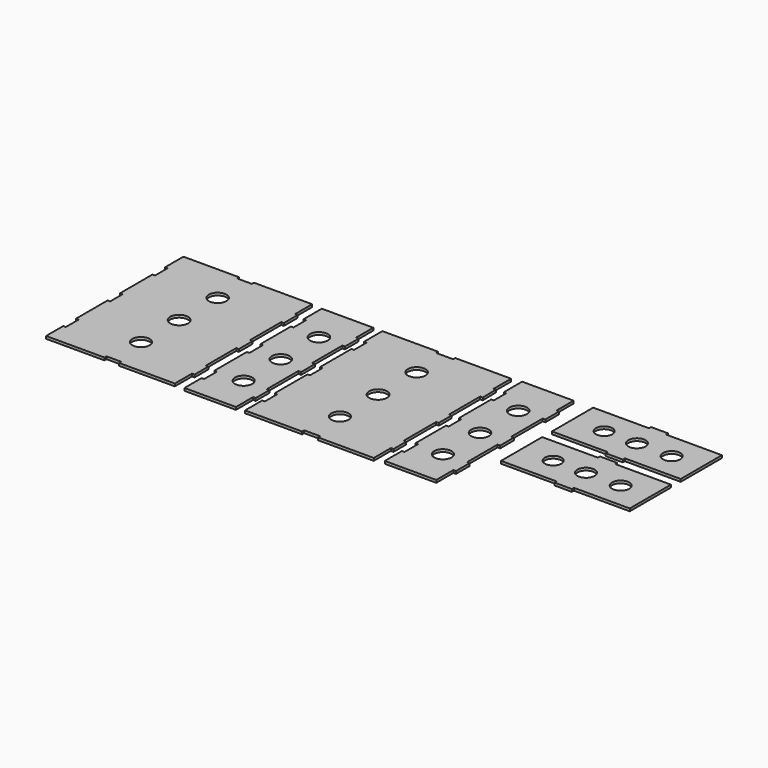
from build123d import *

# Parameters (mm, degrees)
F0_R     = 10.082117
F0_R_2   = 10.420253
F0_R_3   = 10.261225
F0_R_4   = 10.097408
F0_R_5   = 10.290924
F0_R_6   = 10.321962
F0_R_7   = 9.617991
F0_R_8   = 10
F0_R_9   = 10.046124
F1_DEPTH = 3


with BuildPart() as f1:
    # F0 (on Top) → F1 (new body)
    with BuildSketch(Plane.XY):
        Polygon((10, -100), (75, -100), (75, -75), (78, -75), (78, -56.5), (75, -56.5), (75, -9.035806), (78.000031, -9.035806), (78.000031, 9.464194), (75, 9.464194), (75, 55), (78, 55), (77.600377, 74.996007), (75, 73.5), (75, 100), (10, 100), (10, 97), (-10, 97), (-10, 100), (-75, 100), (-75, 73.5), (-72, 73.5), (-72, 55), (-75, 55), (-75, 9.464194), (-71.999982, 9.464194), (-71.999982, -9.035806), (-75, -9.035806), (-75, -56.5), (-72, -56.5), (-72, -75), (-75, -75), (-75, -100), (-8.5, -100), (-8.5, -97), (10, -97), align=None)
        with Locations((0, -55.51194)):
            Circle(F0_R, mode=Mode.SUBTRACT)
        Circle(F0_R_2, mode=Mode.SUBTRACT)
        with Locations((0, 56.116045)):
            Circle(F0_R_3, mode=Mode.SUBTRACT)
        Polygon((-145.63933, -99.904256), (-85.63933, -99.904256), (-85.63933, -74.904256), (-82.63933, -74.904256), (-82.63933, -54.904256), (-85.63933, -54.904256), (-85.63933, -9.035806), (-82.373428, -9.035806), (-82.373428, 10.964194), (-85.63933, 10.964194), (-85.63933, 55.095744), (-82.63933, 55.095744), (-82.63933, 75.095744), (-85.63933, 75.095744), (-85.63933, 100.095744), (-145.63933, 100.095744), (-145.63933, 73.595744), (-142.63933, 73.595744), (-142.63933, 55.095744), (-145.63933, 55.095744), (-145.63933, 10.964194), (-142.63933, 10.964194), (-142.63933, -9.035806), (-145.63933, -9.035806), (-145.63933, -56.404256), (-142.63933, -56.404256), (-142.63933, -74.904256), (-145.63933, -74.904256), align=None)
        with Locations((-112.506379, -55.128213)):
            Circle(F0_R_4, mode=Mode.SUBTRACT)
        with Locations((-112.506379, -1.0879)):
            Circle(F0_R_5, mode=Mode.SUBTRACT)
        with Locations((-112.506379, 54.488454)):
            Circle(F0_R_6, mode=Mode.SUBTRACT)
        Polygon((86.44101, -98.313044), (146.44101, -98.313044), (146.44101, -73.313044), (149.44101, -73.313044), (149.44101, -53.313044), (146.44101, -53.313044), (146.44101, -9.035806), (149.44101, -9.035806), (149.44101, 10.964194), (146.44101, 10.964194), (146.44101, 56.686956), (149.44101, 56.686956), (149.44101, 76.686956), (146.44101, 76.686956), (146.44101, 101.686956), (86.44101, 101.686956), (86.44101, 75.186956), (89.44101, 75.186956), (89.44101, 56.686956), (86.44101, 56.686956), (86.44101, 9.464194), (89.441434, 9.464194), (89.441434, -9.035806), (86.44101, -9.035806), (86.44101, -53.313044), (89.44101, -53.313044), (89.44101, -73.313044), (86.44101, -73.313044), align=None)
        with Locations((119.573961, -55.037001)):
            Circle(F0_R_4, mode=Mode.SUBTRACT)
        with Locations((119.573961, -0.996688)):
            Circle(F0_R_5, mode=Mode.SUBTRACT)
        with Locations((119.573961, 54.579666)):
            Circle(F0_R_6, mode=Mode.SUBTRACT)
        Polygon((-222.952821, -98.520204), (-157.952821, -98.520204), (-157.952821, -73.520204), (-154.952821, -73.520204), (-154.952821, -53.520204), (-157.952821, -53.520204), (-157.952821, -9.035806), (-154.952821, -9.035806), (-154.952821, 10.964194), (-157.952821, 10.964194), (-157.952821, 56.479796), (-154.952821, 56.479796), (-154.952821, 76.479796), (-157.952821, 76.479796), (-157.952821, 101.479796), (-225.533877, 101.479796), (-225.879048, 98.499719), (-242.879037, 98.480786), (-242.956136, 101.479796), (-307.952821, 101.479796), (-307.952821, 74.979796), (-304.952821, 74.979796), (-304.952821, 56.479796), (-307.952821, 56.479796), (-307.952821, 9.464194), (-304.952821, 9.464194), (-304.952821, -9.035806), (-307.952821, -9.035806), (-307.952821, -55.020204), (-304.952821, -55.020204), (-304.952821, -73.520204), (-307.952821, -73.520204), (-307.952821, -98.520204), (-239.952821, -98.520204), (-239.952821, -95.520204), (-222.952821, -95.520204), align=None)
        with Locations((-232.952821, -54.032145)):
            Circle(F0_R, mode=Mode.SUBTRACT)
        with Locations((-232.952821, 1.479796)):
            Circle(F0_R_2, mode=Mode.SUBTRACT)
        with Locations((-232.952821, 57.59584)):
            Circle(F0_R_3, mode=Mode.SUBTRACT)
        Polygon((168.91019, 102.095747), (168.91019, 42.095747), (233.91019, 42.095747), (233.91019, 39.095747), (253.91019, 39.095747), (253.91019, 42.095747), (318.91019, 42.095747), (318.91019, 102.095747), (253.91019, 102.095747), (253.91019, 105.095747), (233.91019, 105.095747), (233.91019, 102.095747), align=None)
        with Locations((205.700424, 72.095747)):
            Circle(F0_R_7, mode=Mode.SUBTRACT)
        with Locations((243.91019, 72.095747)):
            Circle(F0_R_8, mode=Mode.SUBTRACT)
        with Locations((284.36156, 72.095747)):
            Circle(F0_R_9, mode=Mode.SUBTRACT)
        Polygon((168.953463, 27.82694), (168.953463, -32.17306), (233.953463, -32.17306), (233.953463, -35.17306), (253.953463, -35.17306), (253.953463, -32.17306), (318.953463, -32.17306), (318.953463, 27.82694), (253.953463, 27.82694), (253.953463, 30.82694), (233.953463, 30.82694), (233.953463, 27.82694), align=None)
        with Locations((205.743697, -2.17306)):
            Circle(F0_R_7, mode=Mode.SUBTRACT)
        with Locations((243.953463, -2.17306)):
            Circle(F0_R_8, mode=Mode.SUBTRACT)
        with Locations((284.404833, -2.17306)):
            Circle(F0_R_9, mode=Mode.SUBTRACT)
    extrude(amount=F1_DEPTH)


solid = f1.part
